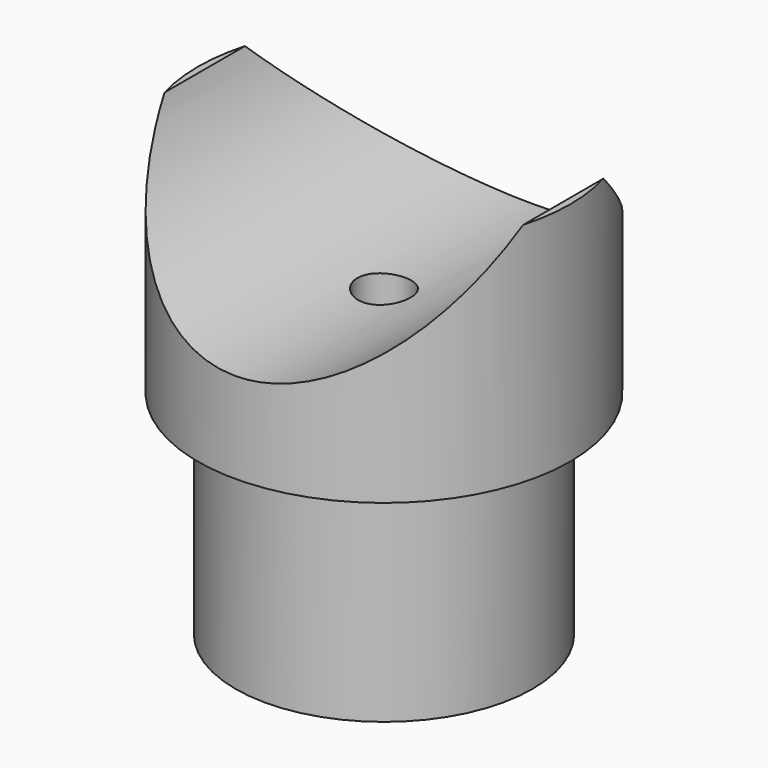
from build123d import *

# Parameters (mm, degrees)
F2_R          = 2.38125
F3_DEPTH      = 39.371
F4_R          = 16.7005
F5_DEPTH      = 16.7015
F5_DEPTH_BACK = 16.7015


with BuildPart() as f1:
    # F0 (on Front) → F1 (revolve)
    with BuildSketch(Plane.XZ):
        Polygon((-13.3223, 0), (0, 0), (0, 39.37), (-16.7005, 39.37), (-16.7005, 19.05), (-13.3223, 19.05), align=None)
    revolve(axis=Axis((0, 0, 19.685), (0, 0, -1)))

    # F2 (on face) → F3 (cut, through all)
    with BuildSketch(Plane(origin=(0, 0, 0), x_dir=(1, 0, 0), z_dir=(0, 0, -1))):
        Circle(F2_R)
    extrude(amount=-F3_DEPTH, mode=Mode.SUBTRACT)

    # F4 (on Front) → F5 (cut, two sides)
    with BuildSketch(Plane.XZ) as f5_sk:
        with Locations((0, 43.8785)):
            Circle(F4_R)
    extrude(amount=-F5_DEPTH, mode=Mode.SUBTRACT)
    extrude(f5_sk.sketch, amount=F5_DEPTH_BACK, mode=Mode.SUBTRACT)


solid = f1.part
